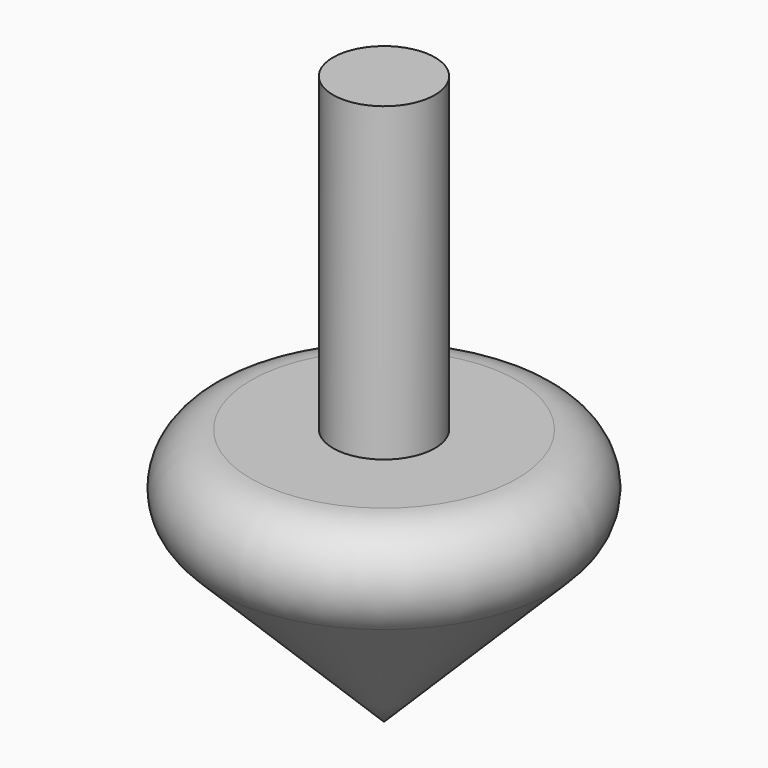
from build123d import *

# Parameters (mm, degrees)
F0_W     = 5.0226673484
F0_H     = 50.8
F2_R     = 5.08
F4_W     = 74.5882093906
F4_H     = 114.3385246396
F5_DEPTH = 21.6480400413


with BuildPart() as f1:
    # F0 (on Front) → F1 (revolve)
    with BuildSketch(Plane.XZ):
        Polygon((0, -25.4), (0, 0), (-5.0226673484, 0), (-25.4, 0), align=None)
        with Locations((-2.5113336742, 25.4)):
            Rectangle(F0_W, F0_H)
    revolve(axis=Axis((0, 0, 25.4), (0, 0, 1)))

    # F2
    f2_edges = [f1.edges().sort_by_distance(p)[0] for p in [
        (25.4, 0, 0),
    ]]
    fillet(f2_edges, radius=F2_R)

    # F4 (on offset) → F5 (cut)
    with BuildSketch(Plane.XY.offset(52.3276198655)):
        with Locations((8.5238665342, 15.934009105)):
            Rectangle(F4_W, F4_H)
    extrude(amount=-F5_DEPTH, mode=Mode.SUBTRACT)


solid = f1.part
